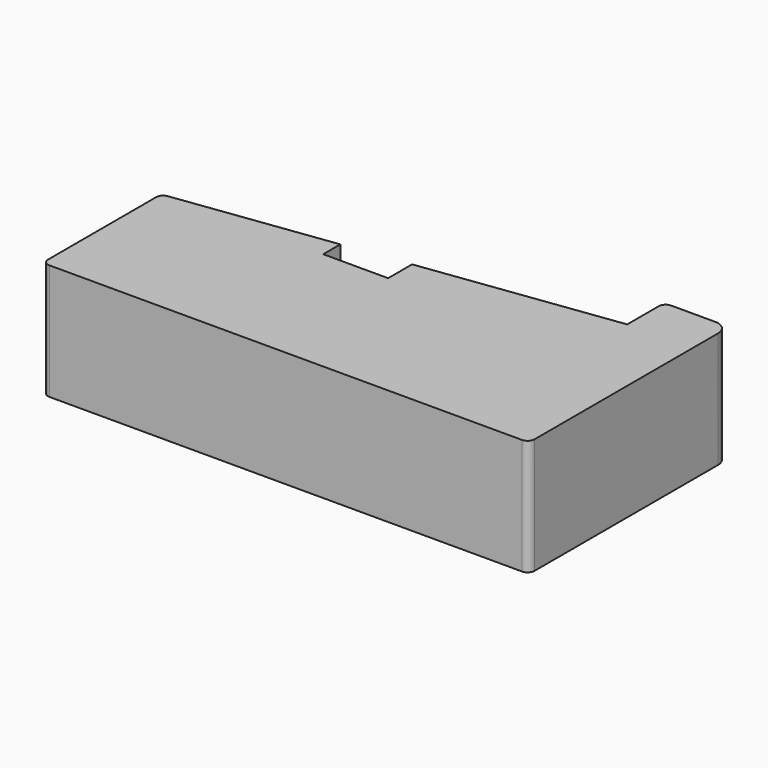
from build123d import *

# Parameters (mm, degrees)
F1_DEPTH = 25


with BuildPart() as f1:
    # F0 (on Top) → F1 (new body)
    with BuildSketch(Plane.XY):
        with BuildLine():
            ThreePointArc((-52.5, -50.461146), (-52.06066, -51.521806), (-51, -51.961146))
            Line((-51, -51.961146), (51, -51.961146))
            ThreePointArc((51, -51.961146), (52.06066, -51.521806), (52.5, -50.461146))
            Line((52.5, -50.461146), (52.5, -0.961146))
            ThreePointArc((52.5, -0.961146), (51.62132, 1.160174), (49.5, 2.038854))
            Line((49.5, 2.038854), (40, 2.038854))
            ThreePointArc((40, 2.038854), (38.93934, 1.599514), (38.5, 0.538854))
            Line((38.5, 0.538854), (38.5, -7.961146))
            Line((38.5, -7.961146), (-3.5, -13.499608))
            Line((-3.5, -13.499608), (-3.5, -19.961146))
            Line((-3.5, -19.961146), (-17.5, -19.961146))
            Line((-17.5, -19.961146), (-17.5, -15.345762))
            Line((-17.5, -15.345762), (-51.196104, -19.789204))
            ThreePointArc((-51.196104, -19.789204), (-52.127865, -20.287431), (-52.5, -21.27633))
            Line((-52.5, -21.27633), (-52.5, -50.461146))
        make_face()
    extrude(amount=F1_DEPTH)


solid = f1.part
